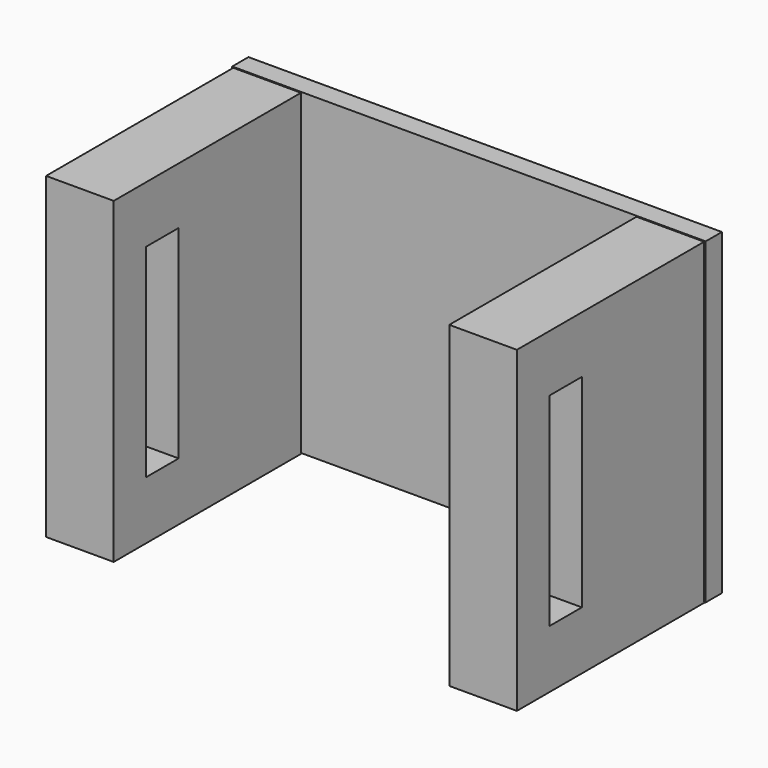
from build123d import *

# Parameters (mm, degrees)
F0_W          = 88.9
F0_H          = 59.69
F1_DEPTH      = 3.81
F2_W          = 12.7
F2_H          = 59.69
F3_DEPTH      = 47.752
F4_W          = 7.62
F4_H          = 38.1
F5_DEPTH      = 25.4
F5_DEPTH_BACK = 25.4
F6_W          = 7.62
F6_H          = 38.1
F7_DEPTH      = 25.4
F7_DEPTH_BACK = 25.4


with BuildPart() as f1:
    # F0 (on Front) → F1 (new body)
    with BuildSketch(Plane.XZ):
        with Locations((-0.312539, -6.258952)):
            Rectangle(F0_W, F0_H)
    extrude(amount=F1_DEPTH)

    # F2 (on Front) → F3 (join)
    with BuildSketch(Plane.XZ):
        with Locations((-38.210436, -6.419758)):
            Rectangle(F2_W, F2_H)
        with Locations((37.492607, -6.419758)):
            Rectangle(F2_W, F2_H)
    extrude(amount=F3_DEPTH)

    # F4 (on face) → F5 (cut, two sides)
    with BuildSketch(Plane.YZ.offset(43.842607)) as f5_sk:
        with Locations((-36.322, -6.292758)):
            Rectangle(F4_W, F4_H)
    extrude(amount=-F5_DEPTH, mode=Mode.SUBTRACT)
    extrude(f5_sk.sketch, amount=-F5_DEPTH_BACK, mode=Mode.SUBTRACT)

    # F6 (on face) → F7 (cut, two sides)
    with BuildSketch(Plane(origin=(-44.560436, 0, 0), x_dir=(0, -1, 0), z_dir=(-1, 0, 0))) as f7_sk:
        with Locations((36.322, -6.292758)):
            Rectangle(F6_W, F6_H)
    extrude(amount=-F7_DEPTH, mode=Mode.SUBTRACT)
    extrude(f7_sk.sketch, amount=-F7_DEPTH_BACK, mode=Mode.SUBTRACT)


solid = f1.part
